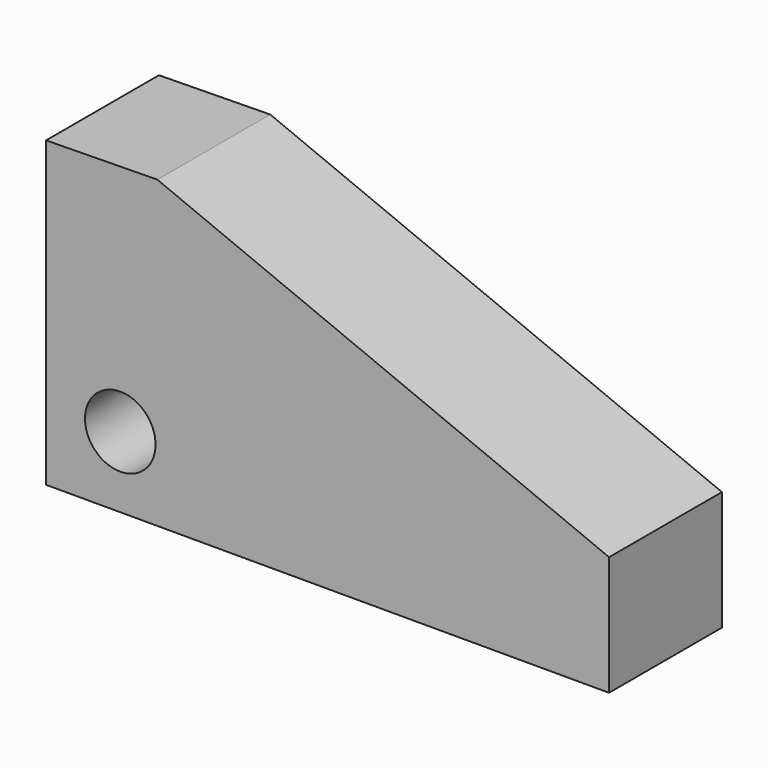
from build123d import *

# Parameters (mm, degrees)
F1_DEPTH = 25.4
F3_D     = 12.7


with BuildPart() as f1:
    # F0 (on Front) → F1 (new body)
    with BuildSketch(Plane.XZ):
        Polygon((-26.718404, 29.477369), (-46.757206, 29.186951), (-46.757206, -25.411526), (54.598473, -25.411526), (54.598473, -3.920635), align=None)
    extrude(amount=F1_DEPTH)

    # F3 (through all)
    with Locations(Plane.XZ.offset(25.4)):
        with Locations((-33.398002, -12.633158)):
            Hole(F3_D / 2)


solid = f1.part
